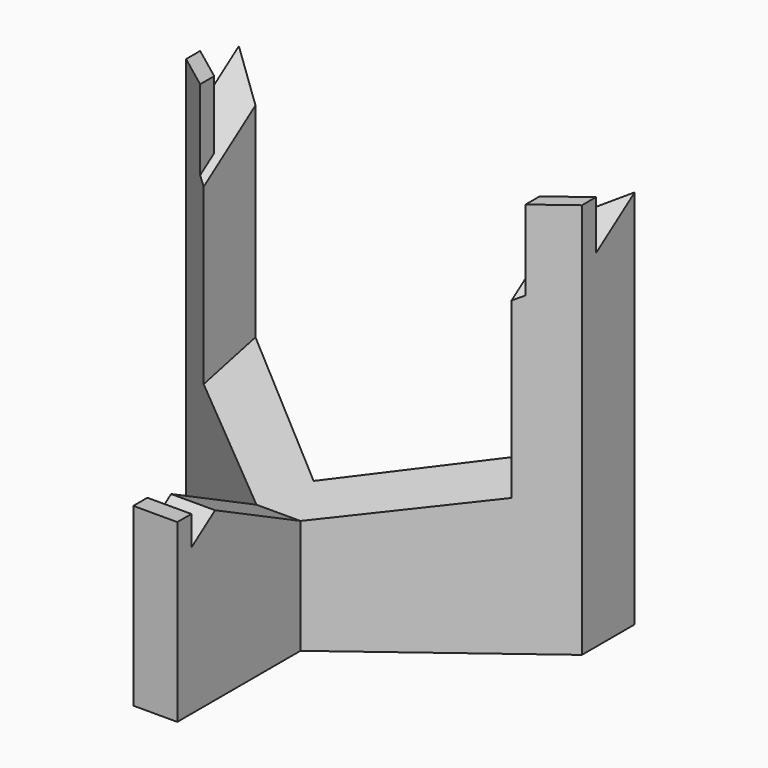
from build123d import *

# Parameters (mm, degrees)
F1_DEPTH      = 80
F3_DEPTH      = 50.001
F3_DEPTH_BACK = 40.001
F5_DEPTH      = 40
F5_DEPTH_BACK = 30
F6_W          = 10
F6_H          = 4
F7_DEPTH      = 30
F9_DEPTH      = 80
F11_DEPTH     = 10


with BuildPart() as f1:
    # F0 (on Top) → F1 (new body)
    with BuildSketch(Plane.XY):
        Polygon((-5, 0), (-5, -35), (5, -35), (5, 0), (45, 30), (45, 45), (0, 10), (-45, 45), (-45, 30), align=None)
    extrude(amount=F1_DEPTH)

    # F2 (on face) → F3 (cut, two sides)
    with BuildSketch(Plane(origin=(-5, 0, 0), x_dir=(0, -1, 0), z_dir=(-1, 0, 0))) as f3_sk:
        Polygon((35, 20.4823592522), (35, 80), (-50, 80), align=None)
    extrude(amount=-F3_DEPTH, mode=Mode.SUBTRACT)
    extrude(f3_sk.sketch, amount=F3_DEPTH_BACK, mode=Mode.SUBTRACT)

    # F4 (on face) → F5 (cut, two sides)
    with BuildSketch(Plane(origin=(-5, 0, 0), x_dir=(0, -1, 0), z_dir=(-1, 0, 0))) as f5_sk:
        Polygon((0, 16), (24.2636963506, 28), (24.2636963506, 88), (-51.7363036494, 88), (-51.7363036494, 28), align=None)
    extrude(amount=-F5_DEPTH, mode=Mode.SUBTRACT)
    extrude(f5_sk.sketch, amount=F5_DEPTH_BACK, mode=Mode.SUBTRACT)

    # F6 (on face) → F7 (join)
    with BuildSketch(Plane(origin=(0, 0, 0), x_dir=(1, 0, 0), z_dir=(0, 0, -1))):
        with Locations((0, 33)):
            Rectangle(F6_W, F6_H)
    extrude(amount=-F7_DEPTH)

    # F8 (on face) → F9 (join)
    with BuildSketch(Plane(origin=(0, 0, 0), x_dir=(1, 0, 0), z_dir=(0, 0, -1))):
        Polygon((-37, -24), (-45, -30), (-45, -34), (-37, -28), align=None)
        Polygon((45, -34), (45, -30), (37, -24), (37, -28), align=None)
    extrude(amount=-F9_DEPTH)

    # F10 (on face) → F11 (join)
    with BuildSketch(Plane(origin=(0, 0, 0), x_dir=(1, 0, 0), z_dir=(0, 0, -1))):
        Polygon((5, 35), (-5, 35), (-5, 0), (-45, -30), (-45, -45), (0, -10), (45, -45), (45, -30), (5, 0), align=None)
    extrude(amount=F11_DEPTH)


solid = f1.part
